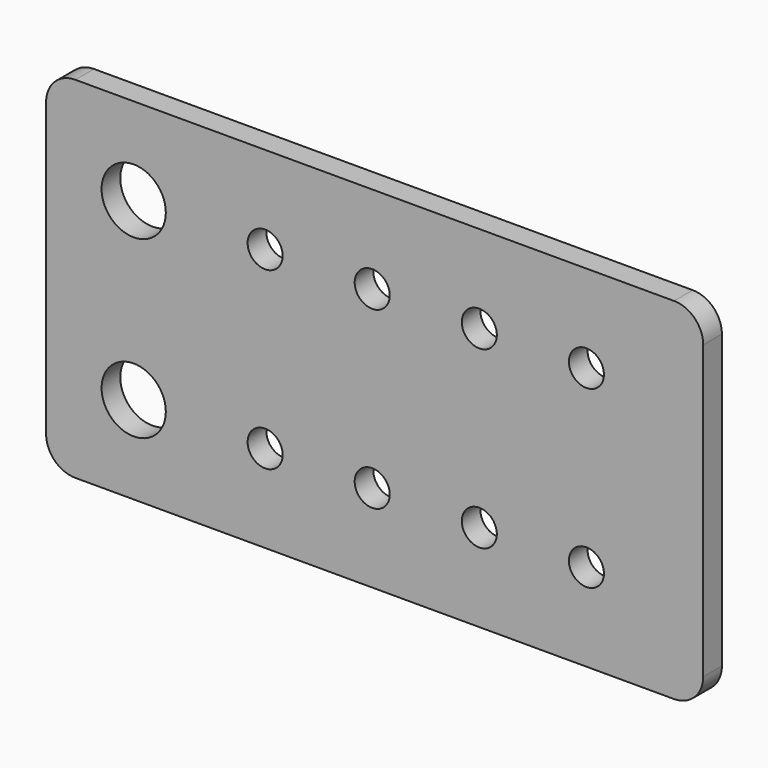
from build123d import *

# Parameters (mm, degrees)
SKETCH_W            = 22.5
SKETCH_H            = 12
PAD_DEPTH           = 0.8
SKETCH001_R         = 1.1
POCKET_DEPTH        = 5
FILLET_R            = 1
SKETCH002_R         = 0.6
POCKET001_DEPTH     = 5
LINEARPATTERN_COUNT = 4
LINEARPATTERN_PITCH = 3.666667


with BuildPart() as part:
    # Sketch → Pad (new body)
    with BuildSketch(Plane.XZ):
        with Locations((11.25, 6)):
            Rectangle(SKETCH_W, SKETCH_H)
    extrude(amount=PAD_DEPTH)

    # Sketch001 (on Face6 of Pad) → Pocket (cut)
    with BuildSketch(Plane.XZ.offset(0.8)):
        with Locations((3, 9)):
            Circle(SKETCH001_R)
        with Locations((3, 3)):
            Circle(SKETCH001_R)
    extrude(amount=-POCKET_DEPTH, mode=Mode.SUBTRACT)

    # Fillet
    fillet_edges = [part.edges().sort_by_distance(p)[0] for p in [
        (0, -0.4, 12),
        (22.5, -0.4, 12),
        (22.5, -0.4, 0),
        (0, -0.4, 0),
    ]]
    fillet(fillet_edges, radius=FILLET_R)

    # Sketch002 (on Face5 of Fillet) → Pocket001 (cut)
    with BuildSketch(Plane.XZ.offset(0.8)):
        with Locations((7.5, 9)):
            Circle(SKETCH002_R)
        with Locations((7.5, 3)):
            Circle(SKETCH002_R)
    pocket001 = extrude(amount=-POCKET001_DEPTH, mode=Mode.SUBTRACT)

    # LinearPattern: Pocket001 ×4
    with Locations(*[(i * LINEARPATTERN_PITCH, 0, 0) for i in range(1, LINEARPATTERN_COUNT)]):
        add(pocket001, mode=Mode.SUBTRACT)


solid = part.part
